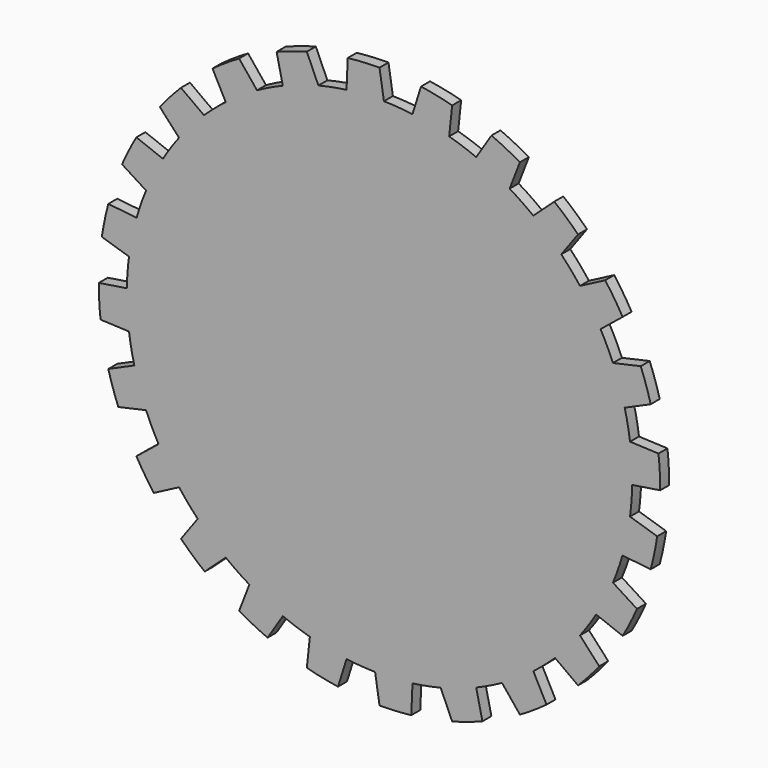
from build123d import *

# Parameters (mm, degrees)
F1_DEPTH = 2


with BuildPart() as f1:
    # F0 (on Front) → F1 (new body)
    with BuildSketch(Plane.XZ):
        with BuildLine():
            Line((-5.660161, 49.678593), (-5.873679, 44.615019))
            ThreePointArc((-5.873679, 44.615019), (-8.393582, 44.210268), (-10.886485, 43.663308))
            Line((-10.886485, 43.663308), (-12.940952, 48.296291))
            ThreePointArc((-12.940952, 48.296291), (-15.65819, 47.484956), (-18.325061, 46.520878))
            Line((-18.325061, 46.520878), (-17.220754, 41.574579))
            ThreePointArc((-17.220754, 41.574579), (-19.550037, 40.531421), (-21.816433, 39.357887))
            Line((-21.816433, 39.357887), (-25, 43.30127))
            ThreePointArc((-25, 43.30127), (-27.414661, 41.814308), (-29.741139, 40.192843))
            Line((-29.741139, 40.192843), (-27.394264, 35.7009))
            ThreePointArc((-27.394264, 35.7009), (-29.374189, 34.090424), (-31.259627, 32.370291))
            Line((-31.259627, 32.370291), (-35.355339, 35.355339))
            ThreePointArc((-35.355339, 35.355339), (-37.302869, 33.294083), (-39.130408, 31.125732))
            Line((-39.130408, 31.125732), (-35.7009, 27.394264))
            ThreePointArc((-35.7009, 27.394264), (-37.196539, 25.326222), (-38.572529, 23.176713))
            Line((-38.572529, 23.176713), (-43.30127, 25))
            ThreePointArc((-43.30127, 25), (-44.648947, 22.504922), (-45.853004, 19.937453))
            Line((-45.853004, 19.937453), (-41.574579, 17.220754))
            ThreePointArc((-41.574579, 17.220754), (-42.484006, 14.836079), (-43.256776, 12.403681))
            Line((-43.256776, 12.403681), (-48.296291, 12.940952))
            ThreePointArc((-48.296291, 12.940952), (-48.952274, 10.182088), (-49.450793, 7.390471))
            Line((-49.450793, 7.390471), (-44.615019, 5.873679))
            ThreePointArc((-44.615019, 5.873679), (-44.876258, 3.334882), (-44.993146, 0.785358))
            Line((-44.993146, 0.785358), (-50, 0))
            ThreePointArc((-50, 0), (-49.919584, -2.834639), (-49.678593, -5.660161))
            Line((-49.678593, -5.660161), (-44.615019, -5.873679))
            ThreePointArc((-44.615019, -5.873679), (-44.210268, -8.393582), (-43.663308, -10.886485))
            Line((-43.663308, -10.886485), (-48.296291, -12.940952))
            ThreePointArc((-48.296291, -12.940952), (-47.484956, -15.65819), (-46.520878, -18.325061))
            Line((-46.520878, -18.325061), (-41.574579, -17.220754))
            ThreePointArc((-41.574579, -17.220754), (-40.531421, -19.550037), (-39.357887, -21.816433))
            Line((-39.357887, -21.816433), (-43.30127, -25))
            ThreePointArc((-43.30127, -25), (-41.814308, -27.414661), (-40.192843, -29.741139))
            Line((-40.192843, -29.741139), (-35.7009, -27.394264))
            ThreePointArc((-35.7009, -27.394264), (-34.090424, -29.374189), (-32.370291, -31.259627))
            Line((-32.370291, -31.259627), (-35.355339, -35.355339))
            ThreePointArc((-35.355339, -35.355339), (-33.294083, -37.302869), (-31.125732, -39.130408))
            Line((-31.125732, -39.130408), (-27.394264, -35.7009))
            ThreePointArc((-27.394264, -35.7009), (-25.326222, -37.196539), (-23.176713, -38.572529))
            Line((-23.176713, -38.572529), (-25, -43.30127))
            ThreePointArc((-25, -43.30127), (-22.504922, -44.648947), (-19.937453, -45.853004))
            Line((-19.937453, -45.853004), (-17.220754, -41.574579))
            ThreePointArc((-17.220754, -41.574579), (-14.836079, -42.484006), (-12.403681, -43.256776))
            Line((-12.403681, -43.256776), (-12.940952, -48.296291))
            ThreePointArc((-12.940952, -48.296291), (-10.182088, -48.952274), (-7.390471, -49.450793))
            Line((-7.390471, -49.450793), (-5.873679, -44.615019))
            ThreePointArc((-5.873679, -44.615019), (-3.334882, -44.876258), (-0.785358, -44.993146))
            Line((-0.785358, -44.993146), (0, -50))
            ThreePointArc((0, -50), (2.834639, -49.919584), (5.660161, -49.678593))
            Line((5.660161, -49.678593), (5.873679, -44.615019))
            ThreePointArc((5.873679, -44.615019), (8.393582, -44.210268), (10.886485, -43.663308))
            Line((10.886485, -43.663308), (12.940952, -48.296291))
            ThreePointArc((12.940952, -48.296291), (15.65819, -47.484956), (18.325061, -46.520878))
            Line((18.325061, -46.520878), (17.220754, -41.574579))
            ThreePointArc((17.220754, -41.574579), (19.550037, -40.531421), (21.816433, -39.357887))
            Line((21.816433, -39.357887), (25, -43.30127))
            ThreePointArc((25, -43.30127), (27.414661, -41.814308), (29.741139, -40.192843))
            Line((29.741139, -40.192843), (27.394264, -35.7009))
            ThreePointArc((27.394264, -35.7009), (29.374189, -34.090424), (31.259627, -32.370291))
            Line((31.259627, -32.370291), (35.355339, -35.355339))
            ThreePointArc((35.355339, -35.355339), (37.302869, -33.294083), (39.130408, -31.125732))
            Line((39.130408, -31.125732), (35.7009, -27.394264))
            ThreePointArc((35.7009, -27.394264), (37.196539, -25.326222), (38.572529, -23.176713))
            Line((38.572529, -23.176713), (43.30127, -25))
            ThreePointArc((43.30127, -25), (44.648947, -22.504922), (45.853004, -19.937453))
            Line((45.853004, -19.937453), (41.574579, -17.220754))
            ThreePointArc((41.574579, -17.220754), (42.484006, -14.836079), (43.256776, -12.403681))
            Line((43.256776, -12.403681), (48.296291, -12.940952))
            ThreePointArc((48.296291, -12.940952), (48.952274, -10.182088), (49.450793, -7.390471))
            Line((49.450793, -7.390471), (44.615019, -5.873679))
            ThreePointArc((44.615019, -5.873679), (44.876258, -3.334882), (44.993146, -0.785358))
            Line((44.993146, -0.785358), (50, 0))
            ThreePointArc((50, 0), (49.919584, 2.834639), (49.678593, 5.660161))
            Line((49.678593, 5.660161), (44.615019, 5.873679))
            ThreePointArc((44.615019, 5.873679), (44.210268, 8.393582), (43.663308, 10.886485))
            Line((43.663308, 10.886485), (48.296291, 12.940952))
            ThreePointArc((48.296291, 12.940952), (47.484956, 15.65819), (46.520878, 18.325061))
            Line((46.520878, 18.325061), (41.574579, 17.220754))
            ThreePointArc((41.574579, 17.220754), (40.531421, 19.550037), (39.357887, 21.816433))
            Line((39.357887, 21.816433), (43.30127, 25))
            ThreePointArc((43.30127, 25), (41.814308, 27.414661), (40.192843, 29.741139))
            Line((40.192843, 29.741139), (35.7009, 27.394264))
            ThreePointArc((35.7009, 27.394264), (34.090424, 29.374189), (32.370291, 31.259627))
            Line((32.370291, 31.259627), (35.355339, 35.355339))
            ThreePointArc((35.355339, 35.355339), (33.294083, 37.302869), (31.125732, 39.130408))
            Line((31.125732, 39.130408), (27.394264, 35.7009))
            ThreePointArc((27.394264, 35.7009), (25.326222, 37.196539), (23.176713, 38.572529))
            Line((23.176713, 38.572529), (25, 43.30127))
            ThreePointArc((25, 43.30127), (22.504922, 44.648947), (19.937453, 45.853004))
            Line((19.937453, 45.853004), (17.220754, 41.574579))
            ThreePointArc((17.220754, 41.574579), (14.836079, 42.484006), (12.403681, 43.256776))
            Line((12.403681, 43.256776), (12.940952, 48.296291))
            ThreePointArc((12.940952, 48.296291), (10.182088, 48.952274), (7.390471, 49.450793))
            Line((7.390471, 49.450793), (5.873679, 44.615019))
            ThreePointArc((5.873679, 44.615019), (3.334882, 44.876258), (0.785358, 44.993146))
            Line((0.785358, 44.993146), (0, 50))
            ThreePointArc((0, 50), (-2.834639, 49.919584), (-5.660161, 49.678593))
        make_face()
    extrude(amount=F1_DEPTH)


solid = f1.part
